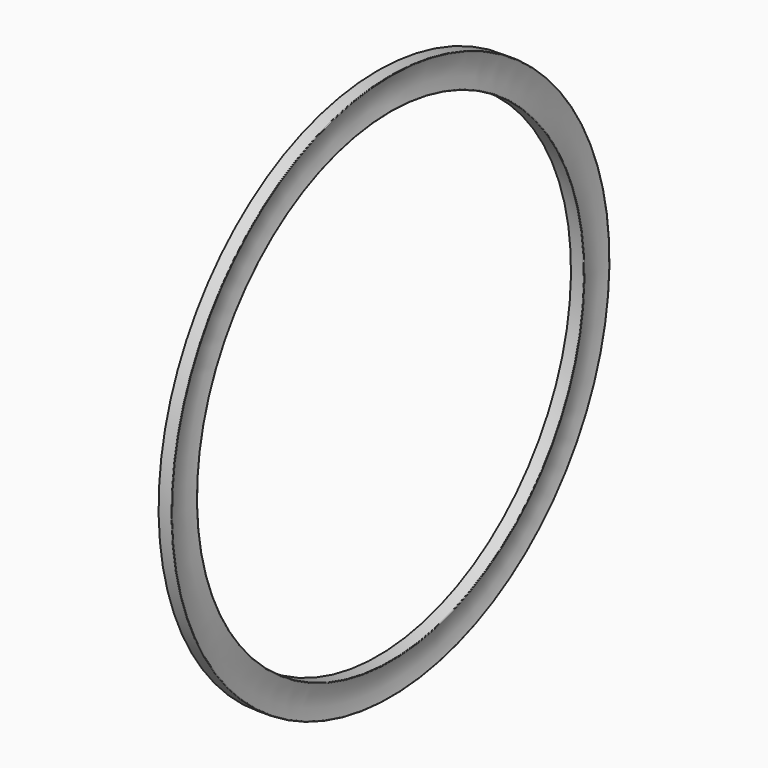
from build123d import *


with BuildPart() as f1:
    # F0 (on Front) → F1 (revolve)
    with BuildSketch(Plane.XZ):
        with BuildLine():
            ThreePointArc((-0.036947, 39.700152), (-0.04654, 39.769573), (-0.108772, 39.8018))
            Line((-0.108772, 39.8018), (-1.943022, 39.8018))
            Line((-1.943022, 39.8018), (-1.943022, 35.1536))
            Line((-1.943022, 35.1536), (-0.108772, 35.1536))
            ThreePointArc((-0.108772, 35.1536), (-0.04654, 35.185827), (-0.036947, 35.255248))
            ThreePointArc((-0.036947, 35.255248), (-0.419022, 37.4777), (-0.036947, 39.700152))
        make_face()
    revolve(axis=Axis((-3.079263, 0, 0), (-1, 0, 0)))


solid = f1.part
